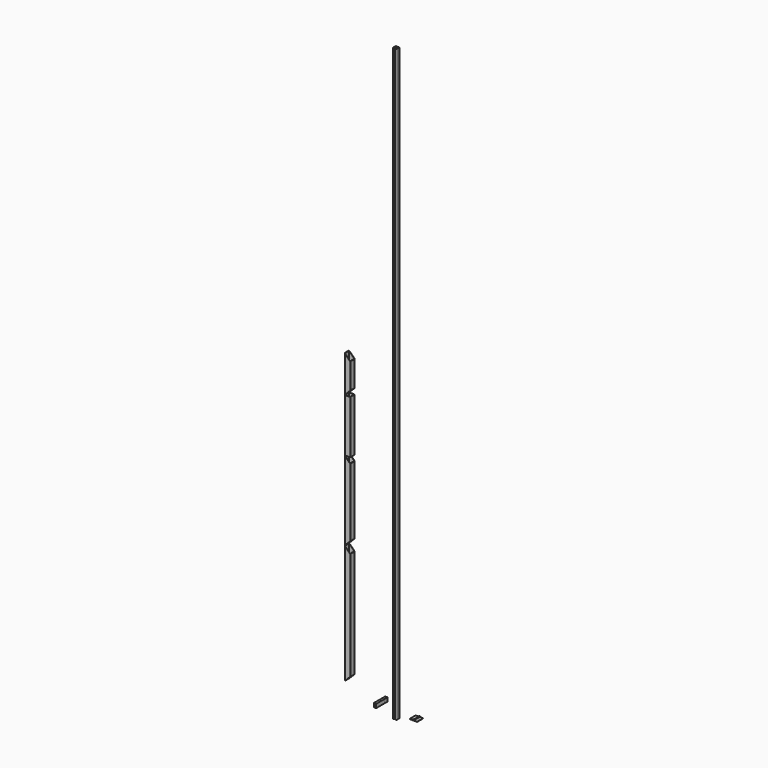
from build123d import *

# Parameters (mm, degrees)
F1_DEPTH  = 2438.4
F2_DEPTH  = 1981.2
F3_DEPTH  = 406.4
F4_W      = 50.8
F4_H      = 101.6
F4_R      = 3.175
F5_DEPTH  = 3.175
F6_R      = 6.35
F6_R_2    = 3.175
F7_DEPTH  = 101.6
F10_DEPTH = 1165.225
F11_W     = 31.75
F11_H     = 139.7
F12_DEPTH = 50.8
F13_DEPTH = 50.8
F14_DEPTH = 1930.4
F16_DEPTH = 1600.2
F17_DEPTH = 1066.8
F18_DEPTH = 711.2
F20_DEPTH = 425.4098488579
F22_DEPTH = 425.4098488579
F23_DEPTH = 495.3
F25_DEPTH = 425.4098488579


with BuildPart() as f1:
    # F0 (on Top) → F1 (new body)
    with BuildSketch(Plane.XY):
        with BuildLine():
            ThreePointArc((25.4, 19.05), (23.5401280605, 23.5401280605), (19.05, 25.4))
            Line((19.05, 25.4), (3.175, 25.4))
            Line((3.175, 25.4), (3.175, 20.6375))
            Line((3.175, 20.6375), (12.7, 20.6375))
            Line((12.7, 20.6375), (12.7, 17.1901280605))
            Line((12.7, 17.1901280605), (3.175, 7.6651280605))
            Line((3.175, 7.6651280605), (0, 7.6651280605))
            Line((0, 7.6651280605), (0, 3.175))
            ThreePointArc((0, 3.175), (2.2450640303, 2.2450640303), (3.175, 0))
            Line((3.175, 0), (7.6651280605, 0))
            Line((7.6651280605, 0), (7.6651280605, 3.175))
            Line((7.6651280605, 3.175), (17.1901280605, 12.7))
            Line((17.1901280605, 12.7), (20.6375, 12.7))
            Line((20.6375, 12.7), (20.6375, 3.175))
            Line((20.6375, 3.175), (25.4, 3.175))
            Line((25.4, 3.175), (25.4, 19.05))
        make_face()
        with BuildLine():
            Line((-3.175, 20.6375), (-3.175, 25.4))
            Line((-3.175, 25.4), (-19.05, 25.4))
            ThreePointArc((-19.05, 25.4), (-23.5401280605, 23.5401280605), (-25.4, 19.05))
            Line((-25.4, 19.05), (-25.4, 3.175))
            Line((-25.4, 3.175), (-20.6375, 3.175))
            Line((-20.6375, 3.175), (-20.6375, 12.7))
            Line((-20.6375, 12.7), (-17.1901280605, 12.7))
            Line((-17.1901280605, 12.7), (-7.6651280605, 3.175))
            Line((-7.6651280605, 3.175), (-7.6651280605, 0))
            Line((-7.6651280605, 0), (-3.175, 0))
            ThreePointArc((-3.175, 0), (-2.2450640303, 2.2450640303), (0, 3.175))
            Line((0, 3.175), (0, 7.6651280605))
            Line((0, 7.6651280605), (-3.175, 7.6651280605))
            Line((-3.175, 7.6651280605), (-12.7, 17.1901280605))
            Line((-12.7, 17.1901280605), (-12.7, 20.6375))
            Line((-12.7, 20.6375), (-3.175, 20.6375))
        make_face()
        with BuildLine():
            Line((-20.6375, -3.175), (-25.4, -3.175))
            Line((-25.4, -3.175), (-25.4, -19.05))
            ThreePointArc((-25.4, -19.05), (-23.5401280605, -23.5401280605), (-19.05, -25.4))
            Line((-19.05, -25.4), (-3.175, -25.4))
            Line((-3.175, -25.4), (-3.175, -20.6375))
            Line((-3.175, -20.6375), (-12.7, -20.6375))
            Line((-12.7, -20.6375), (-12.7, -17.1901280605))
            Line((-12.7, -17.1901280605), (-3.175, -7.6651280605))
            Line((-3.175, -7.6651280605), (0, -7.6651280605))
            Line((0, -7.6651280605), (0, -3.175))
            ThreePointArc((0, -3.175), (-2.2450640303, -2.2450640303), (-3.175, 0))
            Line((-3.175, 0), (-7.6651280605, 0))
            Line((-7.6651280605, 0), (-7.6651280605, -3.175))
            Line((-7.6651280605, -3.175), (-17.1901280605, -12.7))
            Line((-17.1901280605, -12.7), (-20.6375, -12.7))
            Line((-20.6375, -12.7), (-20.6375, -3.175))
        make_face()
        with BuildLine():
            Line((25.4, -19.05), (25.4, -3.175))
            Line((25.4, -3.175), (20.6375, -3.175))
            Line((20.6375, -3.175), (20.6375, -12.7))
            Line((20.6375, -12.7), (17.1901280605, -12.7))
            Line((17.1901280605, -12.7), (7.6651280605, -3.175))
            Line((7.6651280605, -3.175), (7.6651280605, 0))
            Line((7.6651280605, 0), (3.175, 0))
            ThreePointArc((3.175, 0), (2.2450640303, -2.2450640303), (0, -3.175))
            Line((0, -3.175), (0, -7.6651280605))
            Line((0, -7.6651280605), (3.175, -7.6651280605))
            Line((3.175, -7.6651280605), (12.7, -17.1901280605))
            Line((12.7, -17.1901280605), (12.7, -20.6375))
            Line((12.7, -20.6375), (3.175, -20.6375))
            Line((3.175, -20.6375), (3.175, -25.4))
            Line((3.175, -25.4), (19.05, -25.4))
            ThreePointArc((19.05, -25.4), (23.5401280605, -23.5401280605), (25.4, -19.05))
        make_face()
    extrude(amount=F1_DEPTH)


with BuildPart() as f2:
    # F2 (new): a face of the model
    f2_faces = [f1.part.faces().sort_by_distance(p)[0] for p in [
        (11.9196280605, 8.4455, 2438.4),
    ]]
    extrude(f2_faces, amount=F2_DEPTH)


with BuildPart() as f3:
    # F3 (new): a face of the model
    f3_faces = [f2.part.faces().sort_by_distance(p)[0] for p in [
        (11.9196280605, 8.4455, 4419.6),
    ]]
    extrude(f3_faces, amount=F3_DEPTH)


with BuildPart() as f5:
    # F4 (on Top) → F5 (new body)
    with BuildSketch(Plane.XY):
        with Locations((144.9239573717, 126.877491045)):
            Rectangle(F4_W, F4_H)
        with Locations((144.9239573717, 88.777491045)):
            Circle(F4_R, mode=Mode.SUBTRACT)
        with Locations((144.9239573717, 164.977491045)):
            Circle(F4_R, mode=Mode.SUBTRACT)
    extrude(amount=F5_DEPTH)

    # F6 (on face) → F7 (join, through all)
    with BuildSketch(Plane.XZ.offset(-76.077491045)):
        with Locations((170.3239573717, 6.35)):
            Circle(F6_R)
        with Locations((170.3239573717, 6.35)):
            Circle(F6_R_2, mode=Mode.SUBTRACT)
    extrude(amount=-F7_DEPTH)


with BuildPart() as f9_1:
    # F9: instance of F5
    add(f5.part.mirror(Plane.YZ.offset(170.3239573717)))


with BuildPart() as f10:
    # F10 (new): a face of the model
    f10_faces = [f3.part.faces().sort_by_distance(p)[0] for p in [
        (11.9196280605, 8.4455, 4826),
    ]]
    extrude(f10_faces, amount=F10_DEPTH)


with BuildPart() as f12:
    # F11 (on Top) → F12 (new body)
    with BuildSketch(Plane.XY):
        with Locations((-324.8125729561, 120.4986445665)):
            Rectangle(F11_W, F11_H)
    extrude(amount=F12_DEPTH)


with BuildPart() as f13:
    # F13 (new): a face of the model
    f13_faces = [f12.part.faces().sort_by_distance(p)[0] for p in [
        (-324.8125729561, 190.3486445665, 25.4),
    ]]
    extrude(f13_faces, amount=F13_DEPTH)


with BuildPart() as f14:
    # F14 (new): a face of the model
    f14_faces = [f10.part.faces().sort_by_distance(p)[0] for p in [
        (11.9196280605, 8.4455, 5991.225),
    ]]
    extrude(f14_faces, amount=F14_DEPTH)


with BuildPart() as f16:
    # F15 (on Top) → F16 (new body)
    with BuildSketch(Plane.XY):
        with BuildLine():
            Line((-881.726522541, 400.0088488579), (-945.226522541, 400.0088488579))
            ThreePointArc((-945.226522541, 400.0088488579), (-949.7166506016, 398.1489769184), (-951.576522541, 393.6588488579))
            Line((-951.576522541, 393.6588488579), (-951.576522541, 330.1588488579))
            ThreePointArc((-951.576522541, 330.1588488579), (-949.7166506016, 325.6687207973), (-945.226522541, 323.8088488579))
            Line((-945.226522541, 323.8088488579), (-881.726522541, 323.8088488579))
            ThreePointArc((-881.726522541, 323.8088488579), (-877.2363944805, 325.6687207973), (-875.376522541, 330.1588488579))
            Line((-875.376522541, 330.1588488579), (-875.376522541, 393.6588488579))
            ThreePointArc((-875.376522541, 393.6588488579), (-877.2363944805, 398.1489769184), (-881.726522541, 400.0088488579))
        make_face()
        with BuildLine():
            ThreePointArc((-881.726522541, 396.8338488579), (-879.4814585108, 395.9039128881), (-878.551522541, 393.6588488579))
            Line((-878.551522541, 393.6588488579), (-878.551522541, 330.1588488579))
            ThreePointArc((-878.551522541, 330.1588488579), (-879.4814585108, 327.9137848276), (-881.726522541, 326.9838488579))
            Line((-881.726522541, 326.9838488579), (-945.226522541, 326.9838488579))
            ThreePointArc((-945.226522541, 326.9838488579), (-947.4715865713, 327.9137848276), (-948.401522541, 330.1588488579))
            Line((-948.401522541, 330.1588488579), (-948.401522541, 393.6588488579))
            ThreePointArc((-948.401522541, 393.6588488579), (-947.4715865713, 395.9039128881), (-945.226522541, 396.8338488579))
            Line((-945.226522541, 396.8338488579), (-881.726522541, 396.8338488579))
        make_face(mode=Mode.SUBTRACT)
    extrude(amount=F16_DEPTH)


with BuildPart() as f17:
    # F17 (new): a face of the model
    f17_faces = [f16.part.faces().sort_by_distance(p)[0] for p in [
        (-913.476522541, 398.9312181234, 1600.2),
    ]]
    extrude(f17_faces, amount=F17_DEPTH)


with BuildPart() as f18:
    # F18 (new): a face of the model
    f18_faces = [f17.part.faces().sort_by_distance(p)[0] for p in [
        (-913.476522541, 398.9312181234, 2667),
    ]]
    extrude(f18_faces, amount=F18_DEPTH)


with BuildPart() as f16_1:
    add(f16.part)

    # F19 (on face) → F20 (cut, through all)
    with BuildSketch(Plane(origin=(0, 400.0088488579, 0), x_dir=(-1, 0, 0), z_dir=(0, 1, 0))):
        Polygon((881.726522541, 0), (881.726522541, 69.85), (861.244374127, 90.3321484141), (861.244374127, 0), align=None)
        Polygon((945.226522541, 0), (945.226522541, 6.35), (881.726522541, 69.85), (881.726522541, 0), align=None)
        Polygon((945.226522541, 0), (951.576522541, 0), (945.226522541, 6.35), align=None)
        Polygon((881.726522541, 1530.35), (945.226522541, 1593.85), (945.226522541, 1600.2), (881.726522541, 1600.2), align=None)
        Polygon((861.244374127, 1509.8678515859), (881.726522541, 1530.35), (881.726522541, 1600.2), (861.244374127, 1600.2), align=None)
        Polygon((945.226522541, 1600.2), (945.226522541, 1593.85), (951.576522541, 1600.2), align=None)
    extrude(amount=-F20_DEPTH, mode=Mode.SUBTRACT)


with BuildPart() as f17_1:
    add(f17.part)

    # F21 (on face) → F22 (cut, through all)
    with BuildSketch(Plane(origin=(0, 400.0088488579, 0), x_dir=(-1, 0, 0), z_dir=(0, 1, 0))):
        Polygon((881.726522541, 1600.2), (881.726522541, 1670.05), (849.2597444084, 1702.5167781327), (849.2597444084, 1600.2), align=None)
        Polygon((945.226522541, 1600.2), (945.226522541, 1606.55), (881.726522541, 1670.05), (881.726522541, 1600.2), align=None)
        Polygon((945.226522541, 1600.2), (951.576522541, 1600.2), (945.226522541, 1606.55), align=None)
        Polygon((849.2597444084, 2564.6832218673), (881.726522541, 2597.15), (881.726522541, 2667), (849.2597444084, 2667), align=None)
        Polygon((881.726522541, 2597.15), (945.226522541, 2660.65), (945.226522541, 2667), (881.726522541, 2667), align=None)
        Polygon((945.226522541, 2667), (945.226522541, 2660.65), (951.576522541, 2667), align=None)
    extrude(amount=-F22_DEPTH, mode=Mode.SUBTRACT)


with BuildPart() as f23:
    # F23 (new): a face of the model
    f23_faces = [f18.part.faces().sort_by_distance(p)[0] for p in [
        (-913.476522541, 398.9312181234, 3378.2),
    ]]
    extrude(f23_faces, amount=F23_DEPTH)

    # F24 (on face) → F25 (cut, through all)
    with BuildSketch(Plane(origin=(0, 400.0088488579, 0), x_dir=(-1, 0, 0), z_dir=(0, 1, 0))):
        Polygon((945.226522541, 3378.2), (951.576522541, 3378.2), (945.226522541, 3384.55), align=None)
        Polygon((945.226522541, 3378.2), (945.226522541, 3384.55), (881.726522541, 3448.05), (881.726522541, 3378.2), align=None)
        Polygon((881.726522541, 3378.2), (881.726522541, 3448.05), (855.4004244155, 3474.3760981255), (860.8825206757, 3378.2), align=None)
        Polygon((855.4004244155, 3777.3239018745), (881.726522541, 3803.65), (881.726522541, 3873.5), (860.8825206757, 3873.5), align=None)
        Polygon((881.726522541, 3803.65), (945.226522541, 3867.15), (945.226522541, 3873.5), (881.726522541, 3873.5), align=None)
        Polygon((945.226522541, 3873.5), (945.226522541, 3867.15), (951.576522541, 3873.5), align=None)
    extrude(amount=-F25_DEPTH, mode=Mode.SUBTRACT)


solid = Compound([f1.part, f2.part, f3.part, f5.part, f9_1.part, f10.part, f12.part, f13.part, f14.part, f18.part, f16_1.part, f17_1.part, f23.part])
